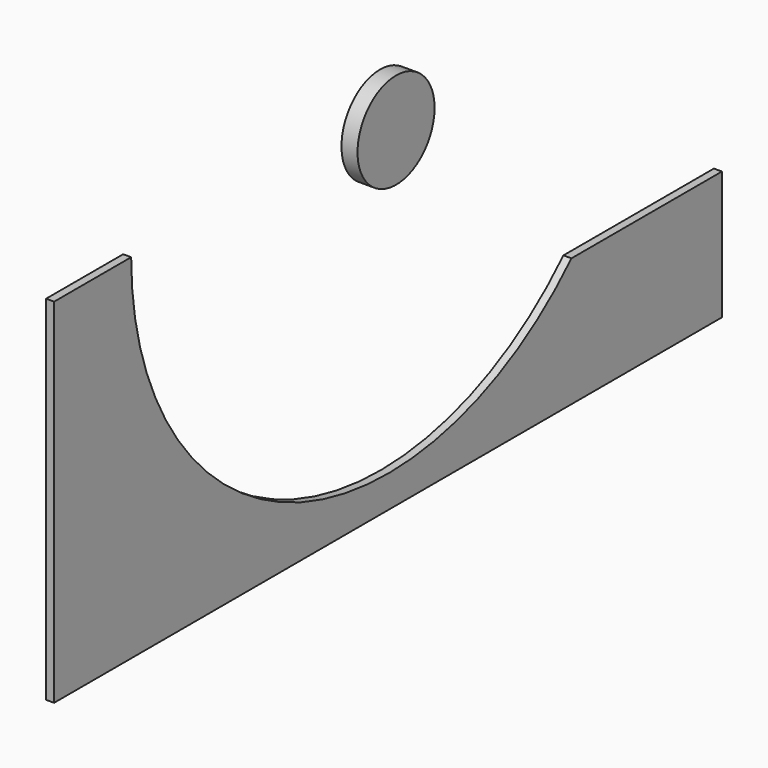
from build123d import *

# Parameters (mm, degrees)
F1_DEPTH = 6.35
F2_DEPTH = 12.7


with BuildPart() as f1:
    # F0 (on Right) → F1 (new body)
    with BuildSketch(Plane.YZ):
        with BuildLine():
            Line((330.2, -51.0121139765), (181.392282085, -51.0121139765))
            ThreePointArc((181.392282085, -51.0121139765), (-96.026976289, -108.3606198718), (-254, 126.7878860235))
            Line((-254, 126.7878860235), (-330.2, 126.7878860235))
            Line((-330.2, 126.7878860235), (-330.2, -152.6121139765))
            Line((-330.2, -152.6121139765), (330.2, -152.6121139765))
            Line((330.2, -152.6121139765), (330.2, -51.0121139765))
        make_face()
    extrude(amount=F1_DEPTH)


with BuildPart() as f2:
    # F0 (on Right) → F2 (new body)
    with BuildSketch(Plane.YZ):
        with BuildLine():
            Line((-35.9210244843, 126.7878860235), (35.9210244843, 126.7878860235))
            ThreePointArc((35.9210244843, 126.7878860235), (0, 152.1878860235), (-35.9210244843, 126.7878860235))
        make_face()
        with BuildLine():
            ThreePointArc((38.1, 114.0878860235), (37.5513051228, 120.530671413), (35.9210244843, 126.7878860235))
            Line((35.9210244843, 126.7878860235), (-35.9210244843, 126.7878860235))
            ThreePointArc((-35.9210244843, 126.7878860235), (-6.4427853895, 76.5365809007), (38.1, 114.0878860235))
        make_face()
    extrude(amount=F2_DEPTH)


solid = Compound([f1.part, f2.part])
